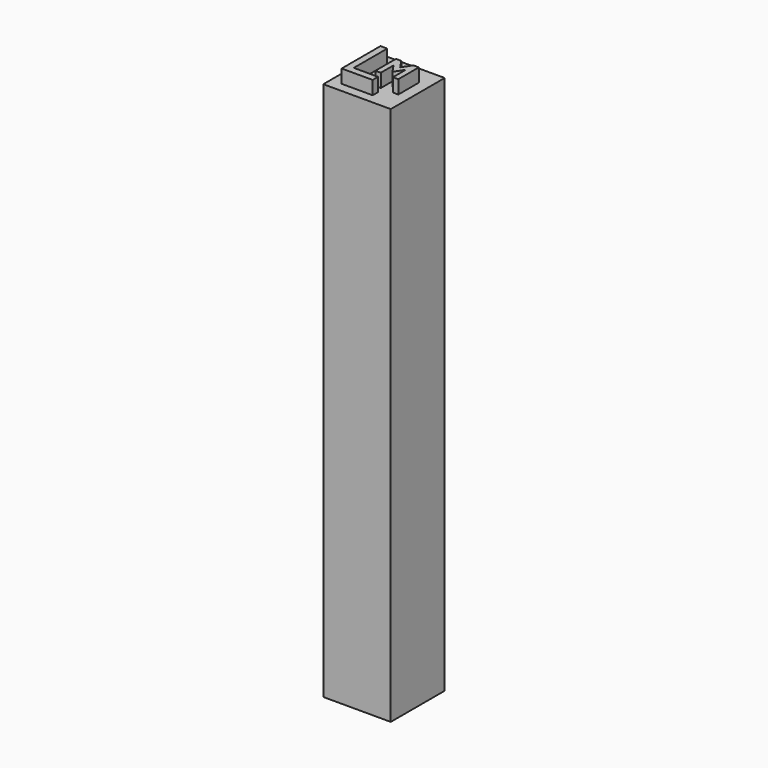
from build123d import *

# Parameters (mm, degrees)
F0_W     = 6.35
F0_H     = 6.35
F1_DEPTH = 50.8
F3_DEPTH = 1.27


with BuildPart() as f1:
    # F0 (on Top) → F1 (new body)
    with BuildSketch(Plane.XY):
        Rectangle(F0_W, F0_H)
    extrude(amount=F1_DEPTH)

    # F2 (on face) → F3 (join)
    with BuildSketch(Plane.XY.offset(50.8)):
        Polygon((0, 1.403497), (0, 0), (0, -1.016), (0.508, -1.016), (0.508, 0.493716), (1.0795, -0.35537), (1.651, 0.493716), (1.651, -1.016), (2.159, -1.016), (2.159, 1.403497), (1.651, 1.403497), (1.0795, 0.554411), (0.508, 1.403497), align=None)
        Polygon((-1.524, 2.286), (-2.159, 2.286), (-2.159, -2.286), (0.758292, -2.286), (0.758292, -1.651), (-1.524, -1.651), align=None)
    extrude(amount=F3_DEPTH)


solid = f1.part
